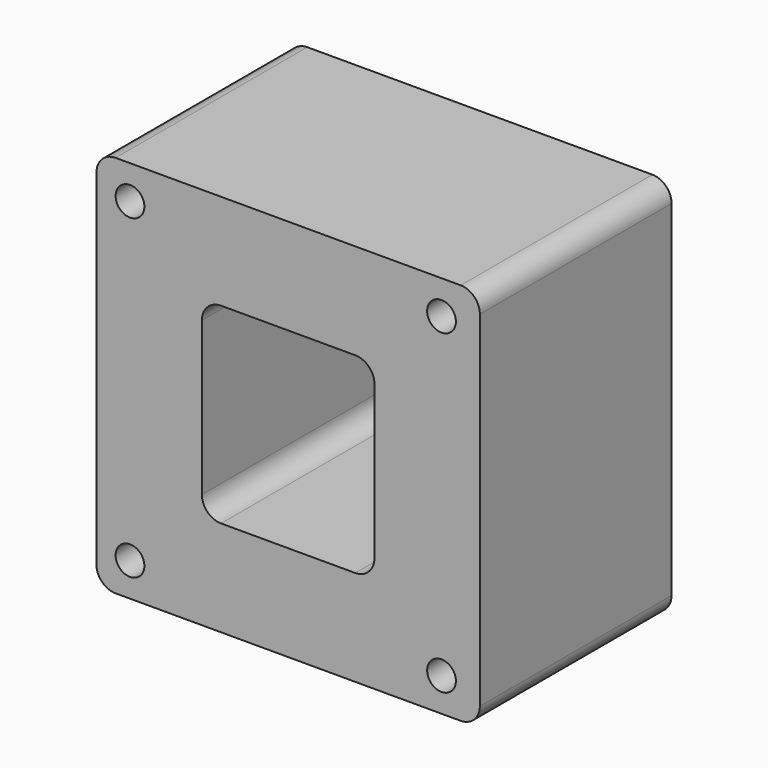
from build123d import *

# Parameters (mm, degrees)
F0_W     = 101.6
F0_H     = 101.6
F0_R     = 3.81
F1_DEPTH = 63.5
F2_W     = 45.72
F2_H     = 50.8
F3_DEPTH = 63.5
F4_R     = 5.08
F5_R     = 5.08
F6_R     = 5.08


with BuildPart() as f1:
    # F0 (on Front) → F1 (new body)
    with BuildSketch(Plane.XZ):
        with Locations((-7.408589, 18.000908)):
            Rectangle(F0_W, F0_H)
        with Locations((-49.318589, -23.909092)):
            Circle(F0_R, mode=Mode.SUBTRACT)
        with Locations((33.231411, -23.909092)):
            Circle(F0_R, mode=Mode.SUBTRACT)
        with Locations((-49.318589, 59.910908)):
            Circle(F0_R, mode=Mode.SUBTRACT)
        with Locations((33.231411, 59.910908)):
            Circle(F0_R, mode=Mode.SUBTRACT)
    extrude(amount=F1_DEPTH)

    # F2 (on face) → F3 (cut)
    with BuildSketch(Plane.XZ.offset(63.5)):
        with Locations((-7.408589, 18.000908)):
            Rectangle(F2_W, F2_H)
    extrude(amount=-F3_DEPTH, mode=Mode.SUBTRACT)

    # F4
    f4_edges = [f1.edges().sort_by_distance(p)[0] for p in [
        (-58.208589, -31.75, 68.800908),
        (-58.208589, -31.75, -32.799092),
        (43.391411, -31.75, -32.799092),
        (43.391411, -31.75, 68.800908),
    ]]
    fillet(f4_edges, radius=F4_R)

    # F5
    f5_edges = [f1.edges().sort_by_distance(p)[0] for p in [
        (-30.268589, -31.75, 43.400908),
    ]]
    fillet(f5_edges, radius=F5_R)

    # F6
    f6_edges = [f1.edges().sort_by_distance(p)[0] for p in [
        (-30.268589, -31.75, -7.399092),
        (15.451411, -31.75, 43.400908),
        (15.451411, -31.75, -7.399092),
    ]]
    fillet(f6_edges, radius=F6_R)


solid = f1.part
